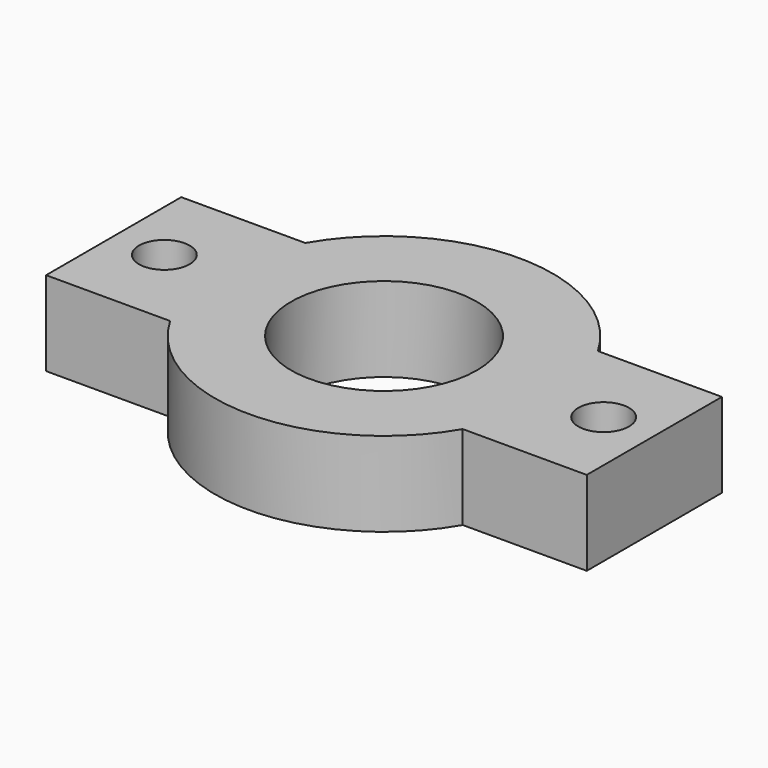
from build123d import *

# Parameters (mm, degrees)
CYLINDER115_R     = 1.5
CYLINDER115_DEPTH = 11
CYLINDER113_R     = 5.5
CYLINDER113_DEPTH = 46
CYLINDER114_R     = 1.5
CYLINDER114_DEPTH = 11
BOX019_W          = 32
BOX019_H          = 10
BOX019_DEPTH      = 5
CYLINDER112_R     = 10
CYLINDER112_DEPTH = 5
CYLINDER111_R     = 7
CYLINDER111_DEPTH = 5


with BuildPart() as obj1:
    # Cylinder115 → Cylinder115 (new body)
    with BuildSketch(Plane(origin=(99.69, 175.69, -10), x_dir=(1, 0, 0), z_dir=(0, 0, 1))):
        Circle(CYLINDER115_R)
    extrude(amount=CYLINDER115_DEPTH)


with BuildPart() as obj2:
    # Cylinder113 → Cylinder113 (new body)
    with BuildSketch(Plane(origin=(86.69, 175.69, -14), x_dir=(1, 0, 0), z_dir=(0, 0, 1))):
        Circle(CYLINDER113_R)
    extrude(amount=CYLINDER113_DEPTH)


with BuildPart() as fusion049:
    # Cylinder114 → Cylinder114 (new body)
    with BuildSketch(Plane(origin=(73.69, 175.69, -10), x_dir=(1, 0, 0), z_dir=(0, 0, 1))):
        Circle(CYLINDER114_R)
    extrude(amount=CYLINDER114_DEPTH)

    # Fusion049: union obj1, obj2
    add(obj1.part)
    add(obj2.part)


with BuildPart() as obj3:
    # Box019 → Box019 (new body)
    with BuildSketch(Plane(origin=(70.69, 170.69, -5), x_dir=(1, 0, 0), z_dir=(0, 0, 1))):
        with Locations((16, 5)):
            Rectangle(BOX019_W, BOX019_H)
    extrude(amount=BOX019_DEPTH)


with BuildPart() as obj4:
    # Cylinder112 → Cylinder112 (new body)
    with BuildSketch(Plane(origin=(86.69, 175.69, -5), x_dir=(1, 0, 0), z_dir=(0, 0, 1))):
        Circle(CYLINDER112_R)
    extrude(amount=CYLINDER112_DEPTH)


with BuildPart() as obj5:
    # Cylinder111 → Cylinder111 (new body)
    with BuildSketch(Plane(origin=(86.69, 175.69, -5), x_dir=(1, 0, 0), z_dir=(0, 0, 1))):
        Circle(CYLINDER111_R)
    extrude(amount=CYLINDER111_DEPTH)

    # Fusion048: union obj3, obj4
    add(obj3.part)
    add(obj4.part)

    # Cut014: cut Fusion049
    add(fusion049.part, mode=Mode.SUBTRACT)


with BuildPart() as obj5_1:
    # Cut014 placement: moved
    add(obj5.part.moved(Location((0, 0, -8))))


solid = obj5_1.part
